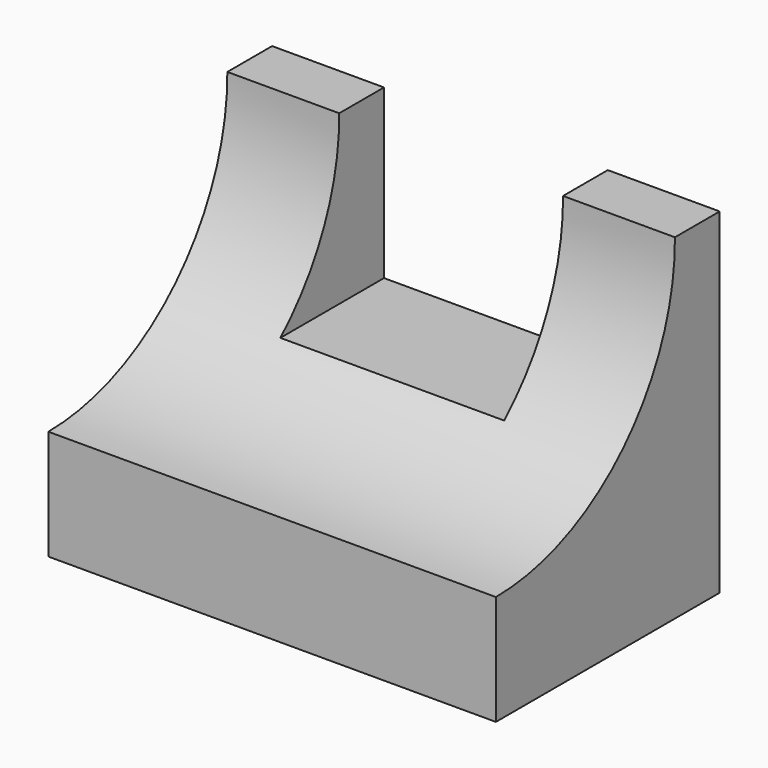
from build123d import *

# Parameters (mm, degrees)
F0_W     = 50.8
F0_H     = 38.1
F1_DEPTH = 31.75
F2_R     = 25.4
F3_DEPTH = 50.801
F4_W     = 25.4
F4_H     = 19.05
F5_DEPTH = 31.751


with BuildPart() as f1:
    # F0 (on Front) → F1 (new body)
    with BuildSketch(Plane.XZ):
        with Locations((25.4, 19.05)):
            Rectangle(F0_W, F0_H)
    extrude(amount=F1_DEPTH)

    # F2 (on Right) → F3 (cut, through all)
    with BuildSketch(Plane.YZ):
        with Locations((-31.75, 37.877075)):
            Circle(F2_R)
    extrude(amount=F3_DEPTH, mode=Mode.SUBTRACT)

    # F4 (on Front) → F5 (cut, through all)
    with BuildSketch(Plane.XZ):
        with Locations((25.4, 28.575)):
            Rectangle(F4_W, F4_H)
    extrude(amount=F5_DEPTH, mode=Mode.SUBTRACT)


solid = f1.part
